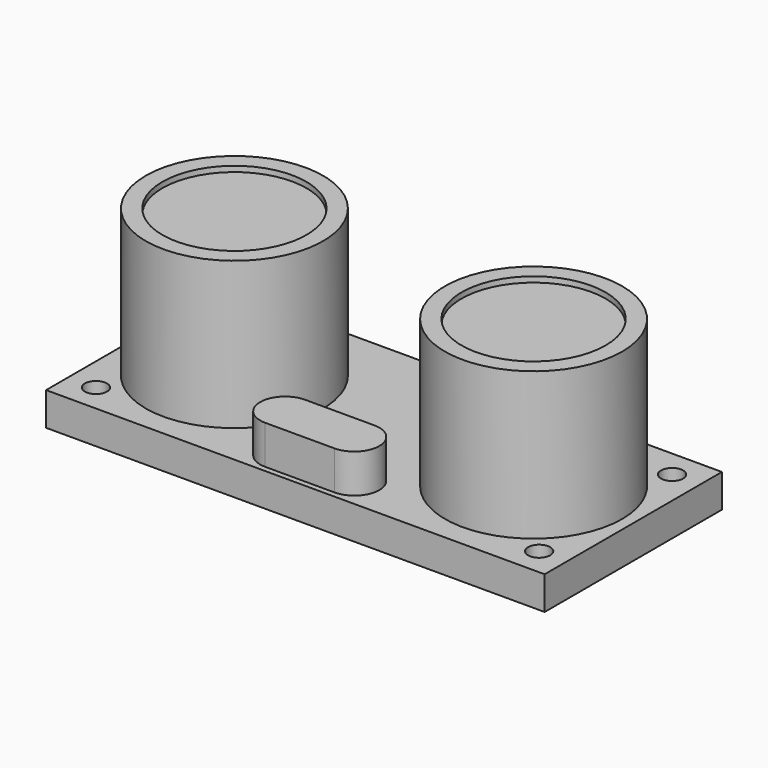
from build123d import *

# Parameters (mm, degrees)
SKETCH_W               = 45
SKETCH_H               = 20
PAD_DEPTH              = 3
SKETCH001_R            = 1
POCKET_DEPTH           = 5
POLARPATTERN_COUNT     = 2
SKETCH002_R            = 8
PAD001_DEPTH           = 13.3
POLARPATTERN001_COUNT  = 2
PAD002_DEPTH           = 3.5
SKETCH006_W            = 10.16
SKETCH006_H            = 2.54
PAD003_DEPTH           = 2
SKETCH007_W            = 0.707106
SKETCH007_H            = 0.707106
PAD004_DEPTH           = 2
LINEARPATTERN_COUNT    = 4
LINEARPATTERN_PITCH    = 2.54
SKETCH008_W            = 0.707106
SKETCH008_H            = 0.707107
PAD005_DEPTH           = 6.5
LINEARPATTERN001_COUNT = 4
LINEARPATTERN001_PITCH = 2.54
SKETCH009_R            = 1
POCKET001_DEPTH        = 5
POLARPATTERN002_COUNT  = 2
SKETCH010_R            = 6.5
POCKET002_DEPTH        = 0.5
POLARPATTERN003_COUNT  = 2


with BuildPart() as part:
    # Sketch → Pad (new body)
    with BuildSketch(Plane.XY):
        Rectangle(SKETCH_W, SKETCH_H)
    extrude(amount=PAD_DEPTH)

    # Sketch001 (on Face6 of Pad) → Pocket (cut)
    with BuildSketch(Plane.XY.offset(3)):
        with Locations((20, 7.5)):
            Circle(SKETCH001_R)
    pocket = extrude(amount=-POCKET_DEPTH, mode=Mode.SUBTRACT)

    # PolarPattern: Pocket ×2 about axis
    polarpattern_axis = Axis((0, 0, 3), (0, 0, 1))
    for i in range(1, POLARPATTERN_COUNT):
        add(pocket.rotate(polarpattern_axis, i * 360 / POLARPATTERN_COUNT), mode=Mode.SUBTRACT)

    # Sketch002 (on Face5 of PolarPattern) → Pad001 (join)
    with BuildSketch(Plane.XY.offset(3)):
        with Locations((13.5, 0)):
            Circle(SKETCH002_R)
    pad001 = extrude(amount=PAD001_DEPTH)

    # PolarPattern001: Pad001 ×2 about axis
    polarpattern001_axis = Axis((0, 0, 3), (0, 0, 1))
    for i in range(1, POLARPATTERN001_COUNT):
        add(pad001.rotate(polarpattern001_axis, i * 360 / POLARPATTERN001_COUNT))

    # Sketch003 (on Face5 of PolarPattern001) → Pad002 (join)
    with BuildSketch(Plane.XY.offset(3)):
        with BuildLine():
            ThreePointArc((-3.125, -5), (-5.375, -7.25), (-3.125, -9.5))
            Line((-3.125, -9.5), (3.125, -9.5))
            ThreePointArc((3.125, -9.5), (5.375, -7.25), (3.125, -5))
            Line((-3.125, -5), (3.125, -5))
        make_face()
    extrude(amount=PAD002_DEPTH)

    # Sketch006 (on Face4 of Pad002) → Pad003 (join)
    with BuildSketch(Plane(origin=(0, 0, 0), x_dir=(1, 0, 0), z_dir=(0, 0, -1))):
        with Locations((0, -8.73)):
            Rectangle(SKETCH006_W, SKETCH006_H)
    extrude(amount=PAD003_DEPTH)

    # Sketch007 (on Face13 of Pad003) → Pad004 (join)
    with BuildSketch(Plane(origin=(0, 0, -2), x_dir=(1, 0, 0), z_dir=(0, 0, -1))):
        with Locations((-3.81, -8.73)):
            Rectangle(SKETCH007_W, SKETCH007_H)
    pad004 = extrude(amount=PAD004_DEPTH)

    # LinearPattern: Pad004 ×4
    with Locations(*[(i * LINEARPATTERN_PITCH, 0, 0) for i in range(1, LINEARPATTERN_COUNT)]):
        add(pad004)

    # Sketch008 (on Face31 of LinearPattern) → Pad005 (join)
    with BuildSketch(Plane(origin=(0, 9.083553, 0), x_dir=(-1, 0, 0), z_dir=(0, 1, 0))):
        with Locations((-3.81, -3.646443)):
            Rectangle(SKETCH008_W, SKETCH008_H)
    pad005 = extrude(amount=PAD005_DEPTH)

    # LinearPattern001: Pad005 ×4
    with Locations(*[(-i * LINEARPATTERN001_PITCH, 0, 0) for i in range(1, LINEARPATTERN001_COUNT)]):
        add(pad005)

    # Sketch009 → Pocket001 (cut)
    with BuildSketch(Plane.XY.offset(3)):
        with Locations((20, -7.5)):
            Circle(SKETCH009_R)
    pocket001 = extrude(amount=-POCKET001_DEPTH, mode=Mode.SUBTRACT)

    # PolarPattern002: Pocket001 ×2 about axis
    polarpattern002_axis = Axis((0, 0, 3), (0, 0, 1))
    for i in range(1, POLARPATTERN002_COUNT):
        add(pocket001.rotate(polarpattern002_axis, i * 360 / POLARPATTERN002_COUNT), mode=Mode.SUBTRACT)

    # Sketch010 (on Face76 of PolarPattern002) → Pocket002 (cut)
    with BuildSketch(Plane.XY.offset(16.3)):
        with Locations((13.5, 0)):
            Circle(SKETCH010_R)
    pocket002 = extrude(amount=-POCKET002_DEPTH, mode=Mode.SUBTRACT)

    # PolarPattern003: Pocket002 ×2 about axis
    polarpattern003_axis = Axis((0, 0, 16.3), (0, 0, 1))
    for i in range(1, POLARPATTERN003_COUNT):
        add(pocket002.rotate(polarpattern003_axis, i * 360 / POLARPATTERN003_COUNT), mode=Mode.SUBTRACT)


solid = part.part
